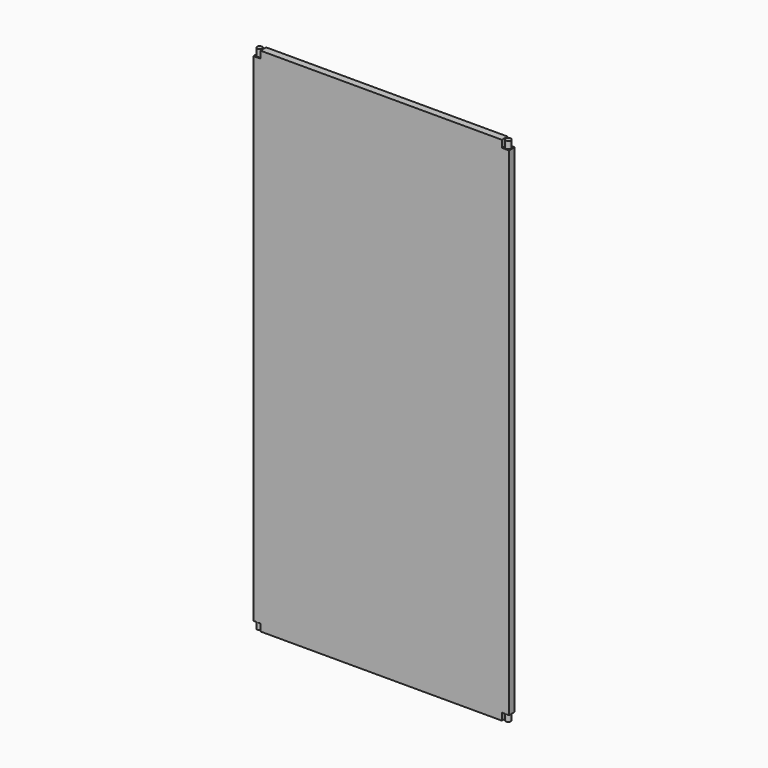
from build123d import *

# Parameters (mm, degrees)
F0_W      = 914.4
F0_H      = 1828.8
F1_DEPTH  = 25.4
F2_W      = 25.4
F2_H      = 25.4
F3_DEPTH  = 25.4
F4_W      = 25.4
F4_H      = 25.4
F5_DEPTH  = 25.4
F6_R      = 9.525
F7_DEPTH  = 25.4
F8_R      = 9.525
F9_DEPTH  = 25.4
F10_R     = 9.525
F11_DEPTH = 25.4
F12_R     = 9.525
F13_DEPTH = 25.4


with BuildPart() as f1:
    # F0 (on Front) → F1 (new body)
    with BuildSketch(Plane.XZ):
        Rectangle(F0_W, F0_H)
    extrude(amount=F1_DEPTH)

    # F2 (on face) → F3 (cut)
    with BuildSketch(Plane.XY.offset(914.4)):
        with Locations((-444.5, -12.7)):
            Rectangle(F2_W, F2_H)
        with Locations((444.5, -12.7)):
            Rectangle(F2_W, F2_H)
    extrude(amount=-F3_DEPTH, mode=Mode.SUBTRACT)

    # F4 (on face) → F5 (cut)
    with BuildSketch(Plane(origin=(0, 0, -914.4), x_dir=(1, 0, 0), z_dir=(0, 0, -1))):
        with Locations((-444.5, 12.7)):
            Rectangle(F4_W, F4_H)
        with Locations((444.5, 12.7)):
            Rectangle(F4_W, F4_H)
    extrude(amount=-F5_DEPTH, mode=Mode.SUBTRACT)

    # F6 (on face) → F7 (join)
    with BuildSketch(Plane.XY.offset(889)):
        with Locations((-444.5, -12.7)):
            Circle(F6_R)
    extrude(amount=F7_DEPTH)

    # F8 (on face) → F9 (join)
    with BuildSketch(Plane.XY.offset(889)):
        with Locations((444.5, -12.7)):
            Circle(F8_R)
    extrude(amount=F9_DEPTH)

    # F10 (on face) → F11 (join)
    with BuildSketch(Plane(origin=(0, 0, -889), x_dir=(1, 0, 0), z_dir=(0, 0, -1))):
        with Locations((-444.5, 12.7)):
            Circle(F10_R)
    extrude(amount=F11_DEPTH)

    # F12 (on face) → F13 (join)
    with BuildSketch(Plane(origin=(0, 0, -889), x_dir=(1, 0, 0), z_dir=(0, 0, -1))):
        with Locations((444.5, 12.7)):
            Circle(F12_R)
    extrude(amount=F13_DEPTH)


solid = f1.part
